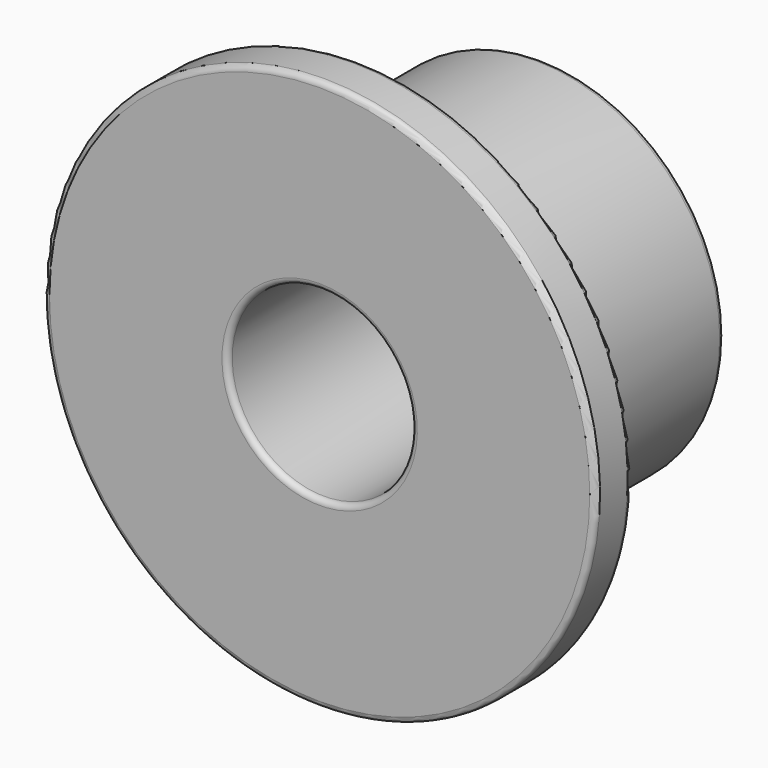
from build123d import *

# Parameters (mm, degrees)
F0_W   = 12.7
F0_H   = 25.4
F0_W_2 = 63.5
F2_R   = 1.5875
F3_R   = 5.08


with BuildPart() as f1:
    # F0 (on Right) → F1 (revolve)
    with BuildSketch(Plane.YZ):
        with Locations((6.35, 63.5)):
            Rectangle(F0_W, F0_H)
        with Locations((6.35, 38.1)):
            Rectangle(F0_W, F0_H)
        with Locations((44.45, 38.1)):
            Rectangle(F0_W_2, F0_H)
    revolve(axis=Axis((0, 45.261729, 0), (0, 1, 0)))

    # F2
    f2_edges = [f1.edges().sort_by_distance(p)[0] for p in [
        (0, 12.7, -76.2),
        (0, 0, -76.2),
        (0, 76.2, -50.8),
        (0, 76.2, -25.4),
        (0, 0, -25.4),
    ]]
    fillet(f2_edges, radius=F2_R)

    # F3
    f3_edges = [f1.edges().sort_by_distance(p)[0] for p in [
        (0, 12.7, -50.8),
    ]]
    fillet(f3_edges, radius=F3_R)


solid = f1.part
